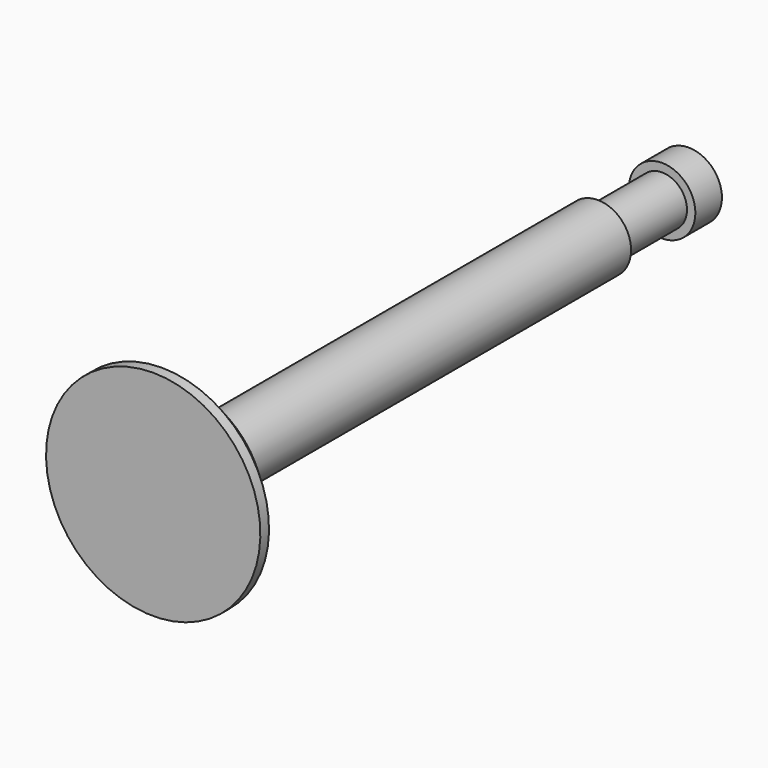
from build123d import *


with BuildPart() as f1:
    # F0 (on Right) → F1 (revolve)
    with BuildSketch(Plane.YZ):
        with BuildLine():
            Line((2.927187, 3.81), (1.657187, 5.08))
            Line((1.657187, 5.08), (1.143, 5.08))
            Line((1.143, 5.08), (1.143, 0))
            Line((1.143, 0), (32.87284, 0))
            Line((32.87284, 0), (32.87284, 1.577975))
            Line((32.87284, 1.577975), (31.29804, 1.577975))
            Line((31.29804, 1.577975), (31.29804, 1.180806))
            Line((31.29804, 1.180806), (27.48804, 1.180806))
            Line((27.48804, 1.180806), (27.48804, 1.577975))
            Line((27.48804, 1.577975), (4.832187, 1.577975))
            ThreePointArc((4.832187, 1.577975), (3.485148, 2.135937), (2.927187, 3.482975))
            Line((2.927187, 3.482975), (2.927187, 3.81))
        make_face()
    revolve(axis=Axis((0, 17.00792, 0), (0, -1, 0)))


solid = f1.part
